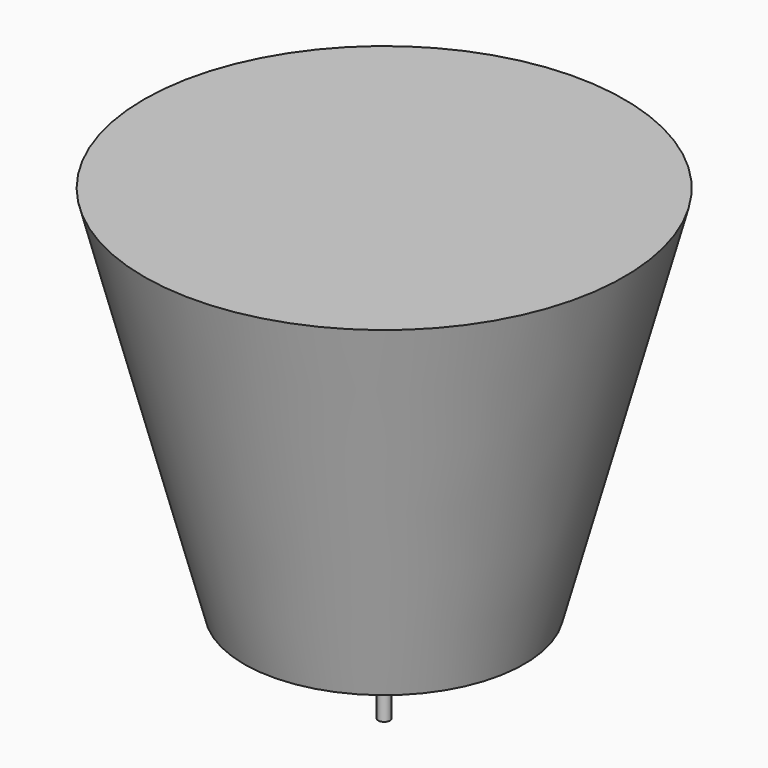
from build123d import *

# Parameters (mm, degrees)
F0_W = 3.175
F0_H = 50.8


with BuildPart() as f1:
    # F0 (on Front) → F1 (revolve)
    with BuildSketch(Plane.XZ):
        Polygon((-3.286508, -53.611609), (-3.286508, 149.588391), (-133.933784, 149.588391), (-79.486508, -53.611609), (-6.461508, -53.611609), align=None)
        with Locations((-4.874008, -79.011609)):
            Rectangle(F0_W, F0_H)
    revolve(axis=Axis((-3.286508, 0, 47.988391), (0, 0, -1)))


solid = f1.part
